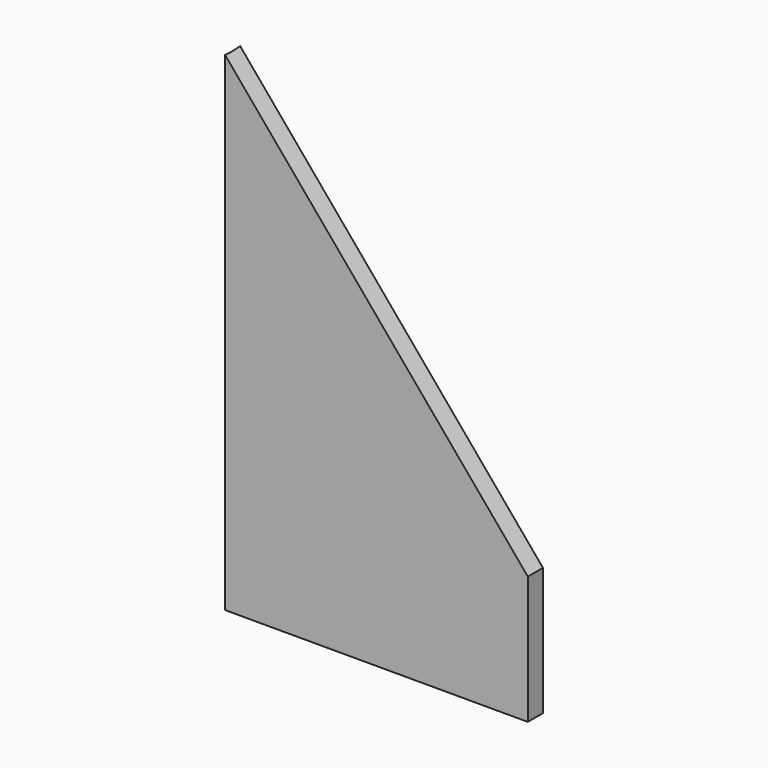
from build123d import *

# Parameters (mm, degrees)
F1_DEPTH = 88.9
F3_DEPTH = 12.7


with BuildPart() as f1:
    # F0 (on Top) → F1 (new body)
    with BuildSketch(Plane.XY):
        with BuildLine():
            ThreePointArc((-0.046732, 1.5875), (0, 0), (-0.046732, -1.5875))
            Line((-0.046732, -1.5875), (0, -1.5875))
            Line((0, -1.5875), (50.8, -1.5875))
            Line((50.8, -1.5875), (50.8, 0))
            Line((50.8, 0), (50.8, 1.5875))
            Line((50.8, 1.5875), (0, 1.5875))
            Line((0, 1.5875), (-0.046732, 1.5875))
        make_face()
    extrude(amount=F1_DEPTH)

    # F2 (on Front) → F3 (cut, symmetric)
    with BuildSketch(Plane.XZ):
        Polygon((-15.299128, 100.259144), (63.5, 6.35), (63.5, 100.259144), align=None)
    extrude(amount=F3_DEPTH, both=True, mode=Mode.SUBTRACT)


solid = f1.part
